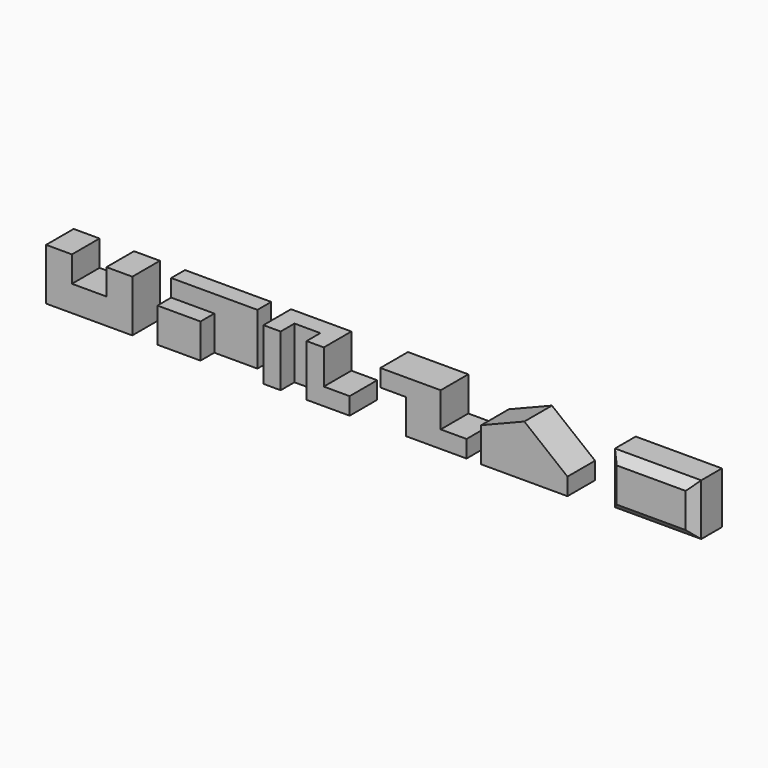
from build123d import *

# Parameters (mm, degrees)
F1_DEPTH  = 101.6
F3_DEPTH  = 152.4
F4_W      = 127
F4_H      = 50.8
F5_DEPTH  = 50.8
F7_DEPTH  = 152.4
F8_W      = 76.2
F8_H      = 101.6
F9_DEPTH  = 101.6
F11_DEPTH = 101.6
F12_W     = 254
F12_H     = 101.6
F13_DEPTH = 152.4
F15_DEPTH = 132.08
F17_DEPTH = 152.4
F18_W     = 254
F18_H     = 101.6
F19_DEPTH = 152.4
F20_SIZE  = 25.4


with BuildPart() as f1:
    # F0 (on Front) → F1 (new body)
    with BuildSketch(Plane.XZ):
        Polygon((-254, 0), (0, 0), (0, 152.4), (-76.2, 152.4), (-76.2, 76.2), (-177.8, 76.2), (-177.8, 152.4), (-254, 152.4), align=None)
    extrude(amount=-F1_DEPTH)


with BuildPart() as f3:
    # F2 (on Top) → F3 (new body)
    with BuildSketch(Plane.XY):
        Polygon((73.956741, 101.6), (73.956741, 0), (200.956741, 0), (200.956741, 50.8), (327.956741, 50.8), (327.956741, 101.6), align=None)
    extrude(amount=F3_DEPTH)

    # F4 (on face) → F5 (cut)
    with BuildSketch(Plane.XZ):
        with Locations((137.456741, 127)):
            Rectangle(F4_W, F4_H)
    extrude(amount=-F5_DEPTH, mode=Mode.SUBTRACT)


with BuildPart() as f7:
    # F6 (on Top) → F7 (new body)
    with BuildSketch(Plane.XY):
        Polygon((386.27745, 101.6), (386.27745, 0), (437.07745, 0), (437.07745, 50.8), (513.27745, 50.8), (513.27745, 0), (640.27745, 0), (640.27745, 101.6), align=None)
    extrude(amount=F7_DEPTH)

    # F8 (on face) → F9 (cut)
    with BuildSketch(Plane.XY.offset(152.4)):
        with Locations((602.17745, 50.8)):
            Rectangle(F8_W, F8_H)
    extrude(amount=-F9_DEPTH, mode=Mode.SUBTRACT)


with BuildPart() as f11:
    # F10 (on Front) → F11 (new body)
    with BuildSketch(Plane.XZ):
        Polygon((806.897046, 102.569079), (806.897046, 0.969079), (984.697046, 0.969079), (984.697046, 51.769079), (908.497046, 51.769079), (908.497046, 153.369079), (730.697046, 153.369079), (730.697046, 102.569079), align=None)
    extrude(amount=-F11_DEPTH)


with BuildPart() as f13:
    # F12 (on Top) → F13 (new body)
    with BuildSketch(Plane.XY):
        with Locations((1154.973732, 50.8)):
            Rectangle(F12_W, F12_H)
    extrude(amount=F13_DEPTH)

    # F14 (on face) → F15 (cut)
    with BuildSketch(Plane.XZ):
        Polygon((1154.973732, 152.4), (1027.973732, 152.4), (1027.973732, 101.6), align=None)
    extrude(amount=-F15_DEPTH, mode=Mode.SUBTRACT)

    # F16 (on face) → F17 (cut)
    with BuildSketch(Plane.XZ):
        Polygon((1154.973732, 152.4), (1281.973732, 50.8), (1281.973732, 152.4), align=None)
    extrude(amount=-F17_DEPTH, mode=Mode.SUBTRACT)


with BuildPart() as f19:
    # F18 (on Top) → F19 (new body)
    with BuildSketch(Plane.XY):
        with Locations((1528.701606, 50.8)):
            Rectangle(F18_W, F18_H)
    extrude(amount=F19_DEPTH)

    # F20
    f20_edges = [f19.edges().sort_by_distance(p)[0] for p in [
        (1401.701606, 0, 76.2),
        (1655.701606, 0, 76.2),
        (1528.701606, 0, 0),
        (1528.701606, 0, 152.4),
    ]]
    chamfer(f20_edges, length=F20_SIZE)


solid = Compound([f1.part, f3.part, f7.part, f11.part, f13.part, f19.part])
